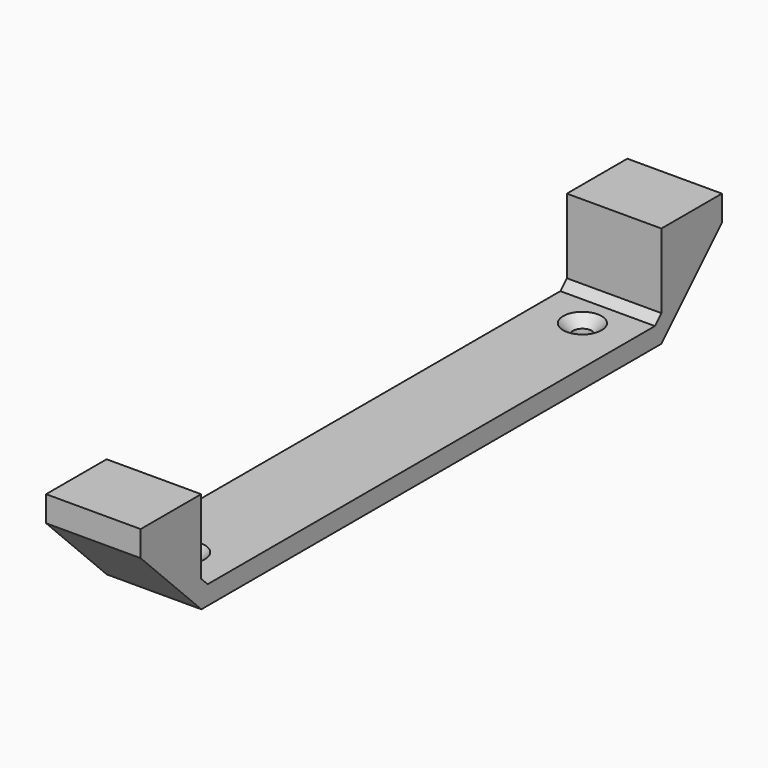
from build123d import *

# Parameters (mm, degrees)
PAD005_DEPTH        = 15
HOLE001_D           = 3
HOLE001_DEPTH       = 25
HOLE001_CSINK_D     = 6.1
HOLE001_CSINK_ANGLE = 90
HOLE_D              = 3
HOLE_DEPTH          = 25
HOLE_CSINK_D        = 6.1
HOLE_CSINK_ANGLE    = 90


with BuildPart() as part:
    # Sketch005 (on Face53 of Binder002) → Pad005 (new body)
    with BuildSketch(Plane(origin=(87.2, 0, 0), x_dir=(0, -1, 0), z_dir=(-1, 0, 0))):
        Polygon((-57.63, -4.868579), (-57.63, -0.81), (-45.63, -0.81), (-45.63, -12.625938), (-44.345938, -13.91), (0, -13.91), (0, -16.91), (-45.588579, -16.91), align=None)
    pad005 = extrude(amount=PAD005_DEPTH)

    # Mirrored: Pad005 across Sketch005 V_Axis
    add(pad005.mirror(Plane(origin=(87.2, 0, 0), x_dir=(-1, 0, 0), z_dir=(0, -1, 0))))

    # Hole001
    with Locations(Plane.XY.offset(-13.91)):
        with Locations((79.7, 39.345938), (79.7, -39.345938)):
            CounterSinkHole(HOLE001_D / 2, HOLE001_CSINK_D / 2, depth=HOLE001_DEPTH, counter_sink_angle=HOLE001_CSINK_ANGLE)

    # Hole
    with Locations(Plane.XY.offset(-13.91)):
        with Locations((79.7, 39.345938), (79.7, -39.345938)):
            CounterSinkHole(HOLE_D / 2, HOLE_CSINK_D / 2, depth=HOLE_DEPTH, counter_sink_angle=HOLE_CSINK_ANGLE)


with BuildPart() as part_1:
    # Body003 placement: moved
    add(part.part.moved(Location((-125, 0, 0))))


solid = part_1.part
